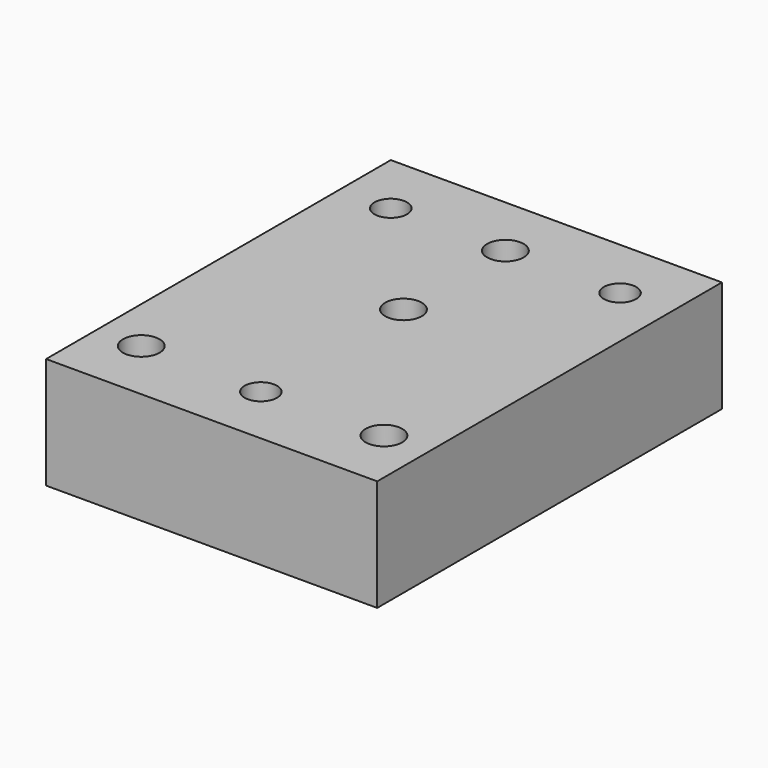
from build123d import *

# Parameters (mm, degrees)
F1_W     = 52
F1_H     = 67.66
F2_DEPTH = 17.5
F0_R     = 1.575
F3_DEPTH = 17.5
F4_R     = 2.875
F5_DEPTH = 13.5
F6_R     = 2.55
F7_DEPTH = 12.5
F8_ANGLE = 180
F9_ANGLE = 180


with BuildPart() as f2:
    # F1 (on Top) → F2 (new body)
    with BuildSketch(Plane.XY):
        with Locations((0, 3.83)):
            Rectangle(F1_W, F1_H)
    extrude(amount=F2_DEPTH)

    # F0 (on Top) → F3 (cut)
    with BuildSketch(Plane.XY):
        Circle(F0_R)
        with Locations((0, -20)):
            Circle(F0_R)
        with Locations((-19.05, 27.66)):
            Circle(F0_R)
        with Locations((19.05, 27.66)):
            Circle(F0_R)
    extrude(amount=F3_DEPTH, mode=Mode.SUBTRACT)

    # F4 (on face) → F5 (cut)
    with BuildSketch(Plane(origin=(0, 0, 0), x_dir=(1, 0, 0), z_dir=(0, 0, -1))):
        Circle(F4_R)
        with Locations((19.05, -27.66)):
            Circle(F4_R)
        with Locations((-19.05, -27.66)):
            Circle(F4_R)
        with Locations((0, 20)):
            Circle(F4_R)
    extrude(amount=-F5_DEPTH, mode=Mode.SUBTRACT)

    # F6 (on face) → F7 (cut)
    with BuildSketch(Plane(origin=(0, 0, 0), x_dir=(1, 0, 0), z_dir=(0, 0, -1))):
        with Locations((0, -28)):
            Circle(F6_R)
        with Locations((-18, 20)):
            Circle(F6_R)
        with Locations((18, 20)):
            Circle(F6_R)
    extrude(amount=-F7_DEPTH, mode=Mode.SUBTRACT)


with BuildPart() as f2_1:
    # F8: moved
    add(f2.part.rotate(Axis((-26, 3.83, 17.5), (0, 1, 0)), F8_ANGLE))


with BuildPart() as f2_2:
    # F9: moved
    add(f2_1.part.rotate(Axis((-26, 37.66, 26.25), (0, 0, 1)), F9_ANGLE))


with BuildPart() as f2_3:
    # F11: moved
    add(f2_2.part.moved(Location((0, -105.32, -35))))


solid = f2_3.part
